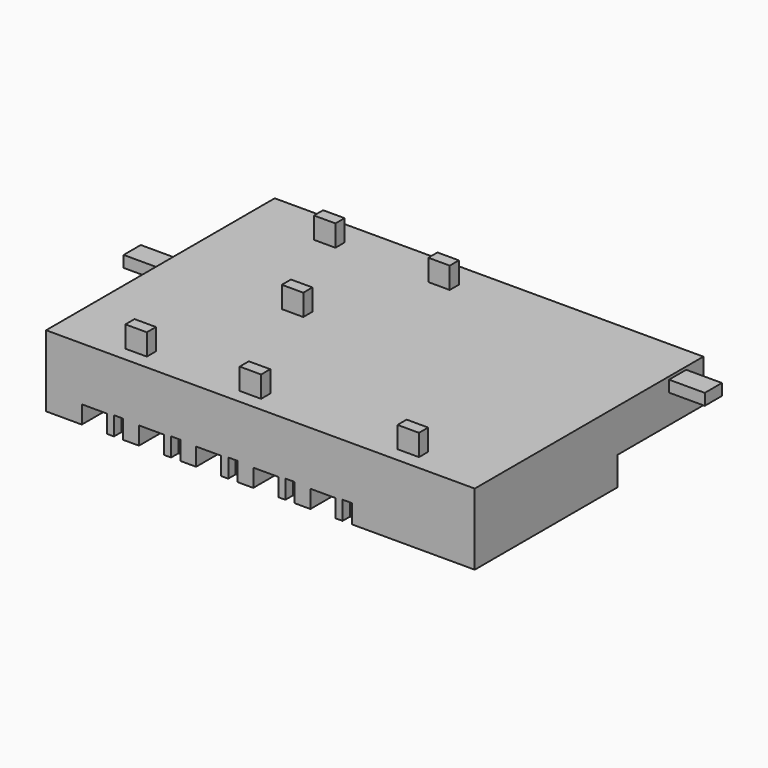
from build123d import *

# Parameters (mm, degrees)
BOX011_W     = 3048
BOX011_H     = 4572
BOX011_DEPTH = 1219.2
BOX006_W     = 1066.8
BOX006_H     = 1981.2
BOX006_DEPTH = 762
BOX005_W     = 396.24
BOX005_H     = 396.24
BOX005_DEPTH = 798.576
BOX007_W     = 1066.8
BOX007_H     = 1981.2
BOX007_DEPTH = 762
BOX008_W     = 396.24
BOX008_H     = 396.24
BOX008_DEPTH = 798.576
BOX010_W     = 1066.8
BOX010_H     = 1981.2
BOX010_DEPTH = 762
BOX009_W     = 396.24
BOX009_H     = 396.24
BOX009_DEPTH = 798.576
BOX001_W     = 1066.8
BOX001_H     = 1981.2
BOX001_DEPTH = 762
BOX002_W     = 396.24
BOX002_H     = 396.24
BOX002_DEPTH = 798.576
BOX003_W     = 1066.8
BOX003_H     = 1981.2
BOX003_DEPTH = 762
BOX004_W     = 396.24
BOX004_H     = 396.24
BOX004_DEPTH = 798.576
BOX_W        = 18288
BOX_H        = 12192
BOX_DEPTH    = 3048
BOX017_W     = 914.4
BOX017_H     = 487.68
BOX017_DEPTH = 1219.2
BOX018_W     = 914.4
BOX018_H     = 487.68
BOX018_DEPTH = 1219.2
BOX019_W     = 914.4
BOX019_H     = 487.68
BOX019_DEPTH = 1219.2
BOX021_W     = 914.4
BOX021_H     = 487.68
BOX021_DEPTH = 1219.2
BOX022_W     = 914.4
BOX022_H     = 487.68
BOX022_DEPTH = 1219.2
BOX016_W     = 914.4
BOX016_H     = 487.68
BOX016_DEPTH = 1219.2
BOX020_W     = 2438.4
BOX020_H     = 914.4
BOX020_DEPTH = 487.68
BOX013_W     = 2438.4
BOX013_H     = 914.4
BOX013_DEPTH = 487.68


with BuildPart() as nurse_station:
    # Box011 → Box011 (new body)
    with BuildSketch(Plane(origin=(15240, 7620, 0), x_dir=(1, 0, 0), z_dir=(0, 0, 1))):
        with Locations((1524, 2286)):
            Rectangle(BOX011_W, BOX011_H)
    extrude(amount=BOX011_DEPTH)


with BuildPart() as box006:
    # Box006 → Box006 (new body)
    with BuildSketch(Plane.XY):
        with Locations((533.4, 990.6)):
            Rectangle(BOX006_W, BOX006_H)
    extrude(amount=BOX006_DEPTH)


with BuildPart() as fusion002:
    # Box005 → Box005 (new body)
    with BuildSketch(Plane(origin=(1371.6, 0, 0), x_dir=(1, 0, 0), z_dir=(0, 0, 1))):
        with Locations((198.12, 198.12)):
            Rectangle(BOX005_W, BOX005_H)
    extrude(amount=BOX005_DEPTH)

    # Fusion002: union Box006
    add(box006.part)


with BuildPart() as fusion002_1:
    # Fusion002 placement: moved
    add(fusion002.part.moved(Location((4876.8, 0, 0))))


with BuildPart() as box007:
    # Box007 → Box007 (new body)
    with BuildSketch(Plane.XY):
        with Locations((533.4, 990.6)):
            Rectangle(BOX007_W, BOX007_H)
    extrude(amount=BOX007_DEPTH)


with BuildPart() as fusion003:
    # Box008 → Box008 (new body)
    with BuildSketch(Plane(origin=(1371.6, 0, 0), x_dir=(1, 0, 0), z_dir=(0, 0, 1))):
        with Locations((198.12, 198.12)):
            Rectangle(BOX008_W, BOX008_H)
    extrude(amount=BOX008_DEPTH)

    # Fusion003: union Box007
    add(box007.part)


with BuildPart() as fusion003_1:
    # Fusion003 placement: moved
    add(fusion003.part.moved(Location((7315.2, 0, 0))))


with BuildPart() as box010:
    # Box010 → Box010 (new body)
    with BuildSketch(Plane.XY):
        with Locations((533.4, 990.6)):
            Rectangle(BOX010_W, BOX010_H)
    extrude(amount=BOX010_DEPTH)


with BuildPart() as fusion004:
    # Box009 → Box009 (new body)
    with BuildSketch(Plane(origin=(1371.6, 0, 0), x_dir=(1, 0, 0), z_dir=(0, 0, 1))):
        with Locations((198.12, 198.12)):
            Rectangle(BOX009_W, BOX009_H)
    extrude(amount=BOX009_DEPTH)

    # Fusion004: union Box010
    add(box010.part)


with BuildPart() as fusion004_1:
    # Fusion004 placement: moved
    add(fusion004.part.moved(Location((9753.6, 0, 0))))


with BuildPart() as box001:
    # Box001 → Box001 (new body)
    with BuildSketch(Plane.XY):
        with Locations((533.4, 990.6)):
            Rectangle(BOX001_W, BOX001_H)
    extrude(amount=BOX001_DEPTH)


with BuildPart() as fusion:
    # Box002 → Box002 (new body)
    with BuildSketch(Plane(origin=(1371.6, 0, 0), x_dir=(1, 0, 0), z_dir=(0, 0, 1))):
        with Locations((198.12, 198.12)):
            Rectangle(BOX002_W, BOX002_H)
    extrude(amount=BOX002_DEPTH)

    # Fusion: union Box001
    add(box001.part)


with BuildPart() as box003:
    # Box003 → Box003 (new body)
    with BuildSketch(Plane.XY):
        with Locations((533.4, 990.6)):
            Rectangle(BOX003_W, BOX003_H)
    extrude(amount=BOX003_DEPTH)


with BuildPart() as right_beds:
    # Box004 → Box004 (new body)
    with BuildSketch(Plane(origin=(1371.6, 0, 0), x_dir=(1, 0, 0), z_dir=(0, 0, 1))):
        with Locations((198.12, 198.12)):
            Rectangle(BOX004_W, BOX004_H)
    extrude(amount=BOX004_DEPTH)

    # Fusion001: union Box003
    add(box003.part)


with BuildPart() as right_beds_1:
    # Fusion001 placement: moved
    add(right_beds.part.moved(Location((2438.4, 0, 0))))

    # Fusion005: union Fusion002, Fusion003, Fusion004, Fusion
    add(fusion002_1.part)
    add(fusion003_1.part)
    add(fusion004_1.part)
    add(fusion.part)


with BuildPart() as surfaces:
    # Part__Mirroring: instance of right beds
    add(right_beds_1.part.mirror(Plane(origin=(0, 6096, 0), x_dir=(1, 0, 0), z_dir=(0, 1, 0))))

    # Fusion006: union right beds
    add(right_beds_1.part)


with BuildPart() as surfaces_1:
    # Fusion006 placement: moved
    add(surfaces.part.moved(Location((1524, 0, 0))))

    # Fusion010: union Nurse Station
    add(nurse_station.part)


with BuildPart() as room:
    # Box → Box (new body)
    with BuildSketch(Plane.XY):
        with Locations((9144, 6096)):
            Rectangle(BOX_W, BOX_H)
    extrude(amount=BOX_DEPTH)


with BuildPart() as branch003:
    # Box017 → Box017 (new body)
    with BuildSketch(Plane(origin=(7772.4, 10668, 2743.2), x_dir=(1, 0, 0), z_dir=(0, 0, 1))):
        with Locations((457.2, 243.84)):
            Rectangle(BOX017_W, BOX017_H)
    extrude(amount=BOX017_DEPTH)


with BuildPart() as branch004:
    # Box018 → Box018 (new body)
    with BuildSketch(Plane(origin=(2895.6, 609.6, 2743.2), x_dir=(1, 0, 0), z_dir=(0, 0, 1))):
        with Locations((457.2, 243.84)):
            Rectangle(BOX018_W, BOX018_H)
    extrude(amount=BOX018_DEPTH)


with BuildPart() as branch005:
    # Box019 → Box019 (new body)
    with BuildSketch(Plane(origin=(2895.6, 10668, 2743.2), x_dir=(1, 0, 0), z_dir=(0, 0, 1))):
        with Locations((457.2, 243.84)):
            Rectangle(BOX019_W, BOX019_H)
    extrude(amount=BOX019_DEPTH)


with BuildPart() as branch006:
    # Box021 → Box021 (new body)
    with BuildSketch(Plane(origin=(5181.6, 6096, 2743.2), x_dir=(1, 0, 0), z_dir=(0, 0, 1))):
        with Locations((457.2, 243.84)):
            Rectangle(BOX021_W, BOX021_H)
    extrude(amount=BOX021_DEPTH)


with BuildPart() as branch007:
    # Box022 → Box022 (new body)
    with BuildSketch(Plane(origin=(14506.4988, 609.6, 2743.2), x_dir=(1, 0, 0), z_dir=(0, 0, 1))):
        with Locations((457.2, 243.84)):
            Rectangle(BOX022_W, BOX022_H)
    extrude(amount=BOX022_DEPTH)


with BuildPart() as fusion011:
    # Box016 → Box016 (new body)
    with BuildSketch(Plane(origin=(7772.4, 609.6, 2743.2), x_dir=(1, 0, 0), z_dir=(0, 0, 1))):
        with Locations((457.2, 243.84)):
            Rectangle(BOX016_W, BOX016_H)
    extrude(amount=BOX016_DEPTH)

    # Fusion011: union branch003, branch004, branch005, branch006, branch007
    add(branch003.part)
    add(branch004.part)
    add(branch005.part)
    add(branch006.part)
    add(branch007.part)


with BuildPart() as main_inlet001:
    # Box020 → Box020 (new body)
    with BuildSketch(Plane(origin=(17373.6, 10363.2, 2438.4), x_dir=(1, 0, 0), z_dir=(0, 0, 1))):
        with Locations((1219.2, 457.2)):
            Rectangle(BOX020_W, BOX020_H)
    extrude(amount=BOX020_DEPTH)


with BuildPart() as cut:
    # Box013 → Box013 (new body)
    with BuildSketch(Plane(origin=(-1524, 6040.43496, 2438.4), x_dir=(1, 0, 0), z_dir=(0, 0, 1))):
        with Locations((1219.2, 457.2)):
            Rectangle(BOX013_W, BOX013_H)
    extrude(amount=BOX013_DEPTH)

    # Fusion012: union main inlet001
    add(main_inlet001.part)

    # Fusion013: union Fusion011
    add(fusion011.part)

    # Fusion014: union Room
    add(room.part)

    # Cut: cut surfaces
    add(surfaces_1.part, mode=Mode.SUBTRACT)


solid = cut.part
